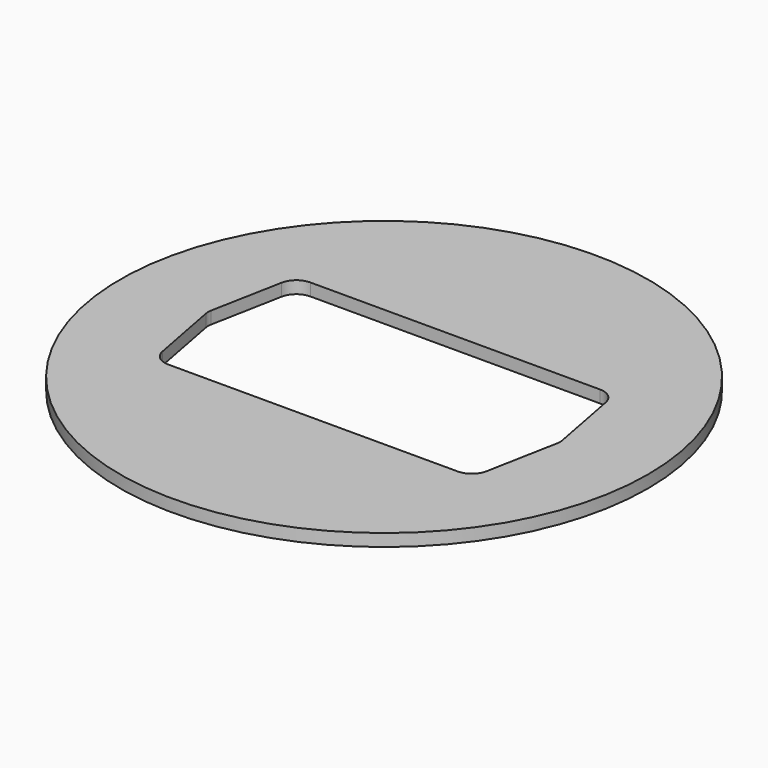
from build123d import *

# Parameters (mm, degrees)
F0_R     = 14.975
F1_DEPTH = 0.7


with BuildPart() as f1:
    # F0 (on Top) → F1 (new body)
    with BuildSketch(Plane.XY):
        Circle(F0_R)
        with BuildLine():
            Line((-8.212497, 5.04), (8.212497, 5.04))
            ThreePointArc((8.212497, 5.04), (8.850027, 4.810426), (9.194836, 4.227112))
            Line((9.194836, 4.227112), (9.96436, 0.187112))
            ThreePointArc((9.96436, 0.187112), (9.982021, 0), (9.96436, -0.187112))
            Line((9.96436, -0.187112), (9.194836, -4.227112))
            ThreePointArc((9.194836, -4.227112), (8.850027, -4.810426), (8.212497, -5.04))
            Line((8.212497, -5.04), (-8.212497, -5.04))
            ThreePointArc((-8.212497, -5.04), (-8.850027, -4.810426), (-9.194836, -4.227112))
            Line((-9.194836, -4.227112), (-9.96436, -0.187112))
            ThreePointArc((-9.96436, -0.187112), (-9.982021, 0), (-9.96436, 0.187112))
            Line((-9.96436, 0.187112), (-9.194836, 4.227112))
            ThreePointArc((-9.194836, 4.227112), (-8.850027, 4.810426), (-8.212497, 5.04))
        make_face(mode=Mode.SUBTRACT)
    extrude(amount=F1_DEPTH)


solid = f1.part
